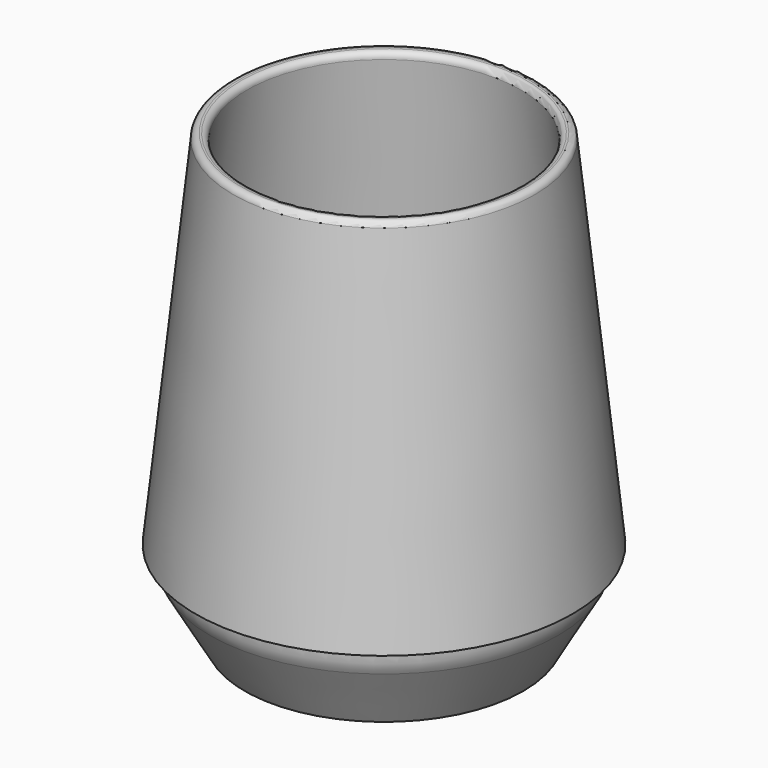
from build123d import *


with BuildPart() as f1:
    # F0 (on Front) → F1 (revolve)
    with BuildSketch(Plane.XZ):
        with BuildLine():
            Line((0, 9), (0, 6))
            Line((0, 6), (18.955073, 6))
            ThreePointArc((18.955073, 6), (23.235102, 4.774185), (26.21728, 1.468449))
            Line((26.21728, 1.468449), (26.935789, 0))
            Line((26.935789, 0), (29.935789, 0))
            Line((29.935789, 0), (37.416824, 12.957532))
            ThreePointArc((37.416824, 12.957532), (38.224512, 14.907464), (38.5, 17))
            Line((38.5, 17), (38.5, 18))
            Line((38.5, 18), (40.5, 18))
            Line((40.5, 18), (32.437757, 94.707122))
            ThreePointArc((32.437757, 94.707122), (31.962995, 95.581524), (31.008991, 95.864113))
            Line((31.008991, 95.864113), (30.611182, 95.822302))
            ThreePointArc((30.611182, 95.822302), (29.73678, 95.34754), (29.454191, 94.393536))
            Line((29.454191, 94.393536), (37.113478, 21.520292))
            ThreePointArc((37.113478, 21.520292), (36.981092, 18.994233), (36.074592, 16.632717))
            Line((36.074592, 16.632717), (34.00176, 13.042468))
            ThreePointArc((34.00176, 13.042468), (31.042468, 10.083176), (27, 9))
            Line((27, 9), (0, 9))
        make_face()
    revolve(axis=Axis((0, 0, 47.353561), (0, 0, 1)))


solid = f1.part
